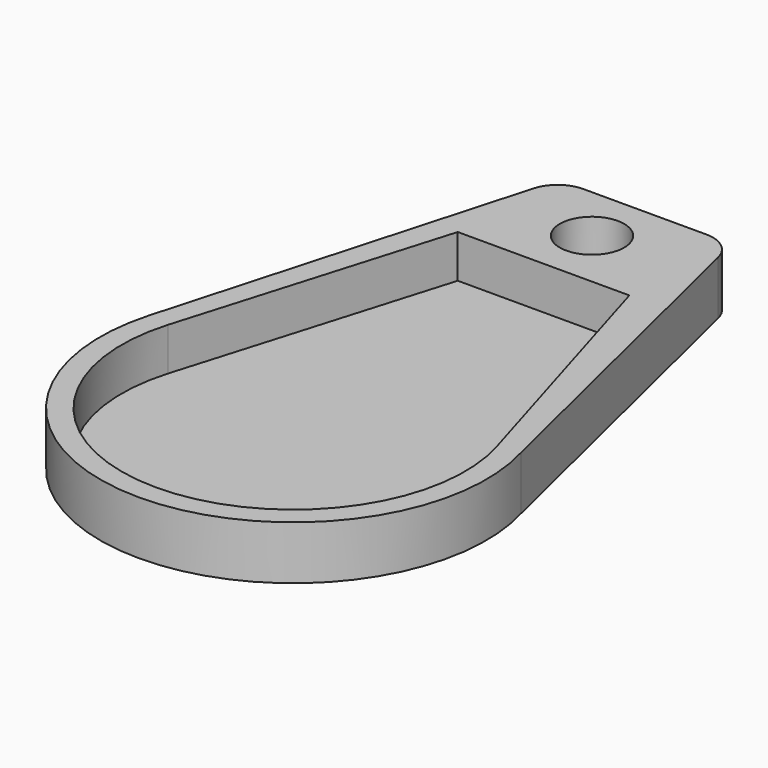
from build123d import *

# Parameters (mm, degrees)
SKETCH003_R  = 3
PAD001_DEPTH = 1
SKETCH_R     = 3
PAD_DEPTH    = 4


with BuildPart() as bottom_body:
    # Sketch003 → Pad001 (new body)
    with BuildSketch(Plane.XY):
        with BuildLine():
            Line((-17.323639, 4.887895), (-7.982505, 37.994419))
            ThreePointArc((-5.095233, 40.179764), (-6.905763, 39.571831), (-7.982505, 37.994419))
            Line((-5.095233, 40.179764), (6.389044, 40.179764))
            ThreePointArc((9.304202, 37.88818), (8.24306, 39.538286), (6.389044, 40.179764))
            Line((9.304202, 37.88818), (17.323639, 4.887895))
            ThreePointArc((-17.323639, 4.887895), (0, -18), (17.323639, 4.887895))
        make_face()
        with Locations((0, 34.821754)):
            Circle(SKETCH003_R, mode=Mode.SUBTRACT)
    extrude(amount=PAD001_DEPTH)


with BuildPart() as fusion:
    # Sketch → Pad (new body)
    with BuildSketch(Plane.XY):
        with BuildLine():
            Line((-17.323639, 4.887895), (-7.982505, 37.994419))
            ThreePointArc((-5.095233, 40.179764), (-6.905763, 39.571831), (-7.982505, 37.994419))
            Line((-5.095233, 40.179764), (6.389044, 40.179764))
            ThreePointArc((9.304202, 37.88818), (8.24306, 39.538286), (6.389044, 40.179764))
            Line((9.304202, 37.88818), (17.323639, 4.887895))
            ThreePointArc((-17.323639, 4.887895), (0, -18), (17.323639, 4.887895))
        make_face()
        with Locations((0, 34.821754)):
            Circle(SKETCH_R, mode=Mode.SUBTRACT)
        with BuildLine():
            Line((-15.333297, 4.57056), (-8, 29.174304))
            Line((-8, 29.174304), (8, 29.174304))
            Line((8, 29.174304), (15.333297, 4.57056))
            ThreePointArc((-15.333297, 4.57056), (0, -16), (15.333297, 4.57056))
        make_face(mode=Mode.SUBTRACT)
    extrude(amount=PAD_DEPTH)


with BuildPart() as fusion_1:
    # Body placement: moved
    add(fusion.part.moved(Location((0, 0, 1))))

    # Fusion: union bottom body
    add(bottom_body.part)


solid = fusion_1.part
